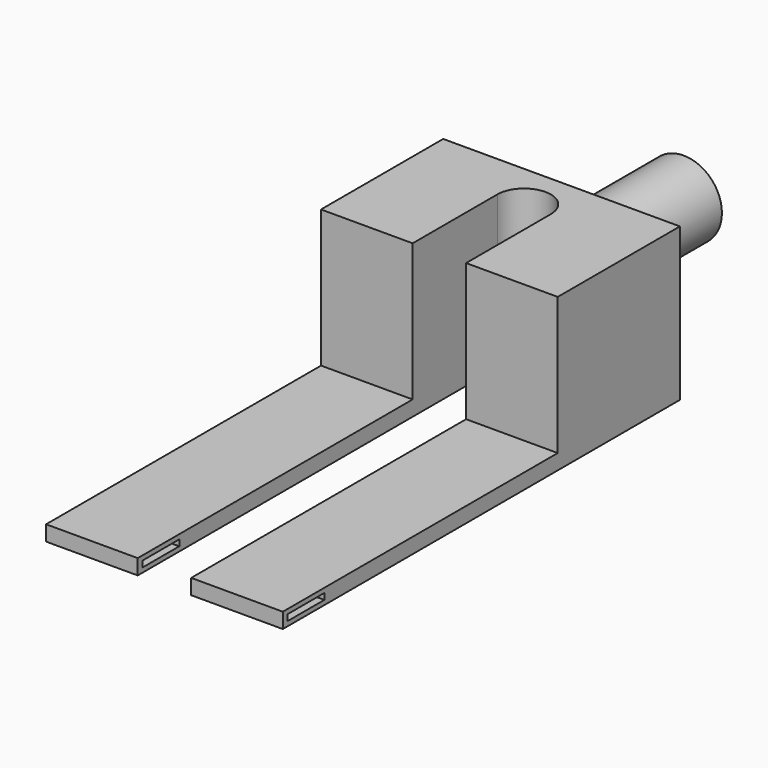
from build123d import *

# Parameters (mm, degrees)
F0_R     = 6.35
F1_DEPTH = 25.4
F2_W     = 39.37
F2_H     = 25.4
F3_DEPTH = 25.4
F5_DEPTH = 25.4
F6_W     = 15.24
F6_H     = 2.54
F7_DEPTH = 57.15
F8_W     = 7.62
F8_H     = 1.016
F9_DEPTH = 35.56


with BuildPart() as f1:
    # F0 (on Front) → F1 (new body)
    with BuildSketch(Plane.XZ):
        Circle(F0_R)
    extrude(amount=F1_DEPTH)

    # F2 (on face) → F3 (join)
    with BuildSketch(Plane.XZ.offset(25.4)):
        Rectangle(F2_W, F2_H)
    extrude(amount=F3_DEPTH)

    # F4 (on face) → F5 (cut)
    with BuildSketch(Plane.XY.offset(12.7)):
        with BuildLine():
            Line((-4.445, -33.1953875721), (-4.445, -50.8))
            Line((-4.445, -50.8), (4.445, -50.8))
            Line((4.445, -50.8), (4.445, -33.1953875721))
            ThreePointArc((4.445, -33.1953875721), (0, -37.6403875721), (-4.445, -33.1953875721))
        make_face()
        with BuildLine():
            ThreePointArc((4.445, -33.1953875721), (0, -28.7503875721), (-4.445, -33.1953875721))
            Line((-4.445, -33.1953875721), (4.445, -33.1953875721))
        make_face()
        with BuildLine():
            Line((4.445, -33.1953875721), (-4.445, -33.1953875721))
            ThreePointArc((-4.445, -33.1953875721), (0, -37.6403875721), (4.445, -33.1953875721))
        make_face()
    extrude(amount=-F5_DEPTH, mode=Mode.SUBTRACT)

    # F6 (on face) → F7 (join)
    with BuildSketch(Plane.XZ.offset(50.8)):
        with Locations((-12.065, -11.43)):
            Rectangle(F6_W, F6_H)
        with Locations((12.065, -11.43)):
            Rectangle(F6_W, F6_H)
    extrude(amount=F7_DEPTH)

    # F8 (on face) → F9 (cut)
    with BuildSketch(Plane.YZ.offset(19.685)):
        with Locations((-103.124, -11.43)):
            Rectangle(F8_W, F8_H)
    extrude(amount=-F9_DEPTH, mode=Mode.SUBTRACT)


solid = f1.part
